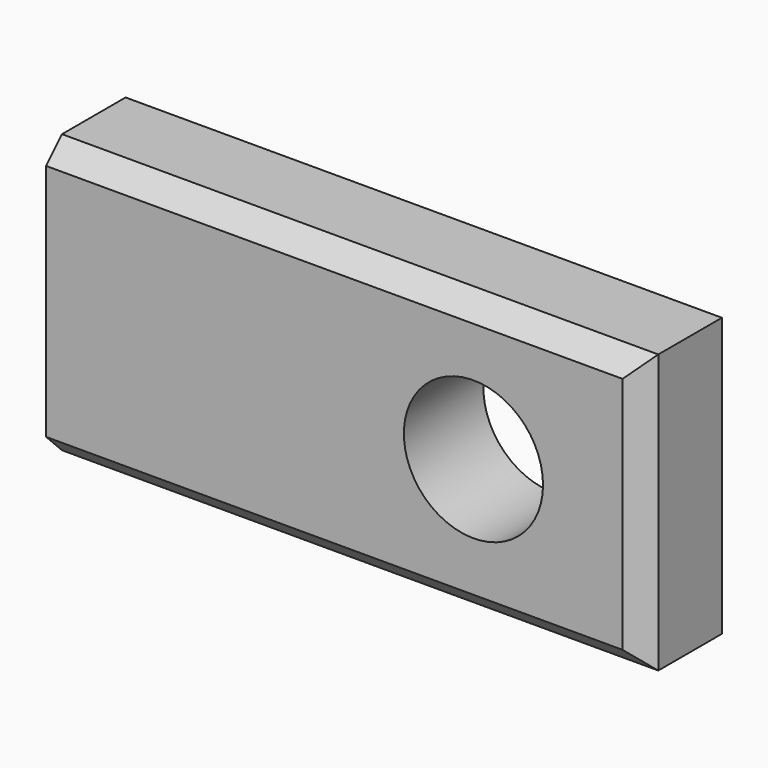
from build123d import *

# Parameters (mm, degrees)
F0_W     = 30
F0_H     = 14
F1_DEPTH = 5
F2_R     = 3.5
F3_DEPTH = 5.001
F4_SIZE  = 1


with BuildPart() as f1:
    # F0 (on Front) → F1 (new body)
    with BuildSketch(Plane.XZ):
        with Locations((15, 7)):
            Rectangle(F0_W, F0_H)
    extrude(amount=F1_DEPTH)

    # F2 (on face) → F3 (cut, through all)
    with BuildSketch(Plane.XZ.offset(5)):
        with Locations((21.5, 7)):
            Circle(F2_R)
    extrude(amount=-F3_DEPTH, mode=Mode.SUBTRACT)

    # F4
    f4_edges = [f1.edges().sort_by_distance(p)[0] for p in [
        (15, -5, 14),
        (30, -5, 7),
        (15, -5, 0),
    ]]
    chamfer(f4_edges, length=F4_SIZE)


solid = f1.part
